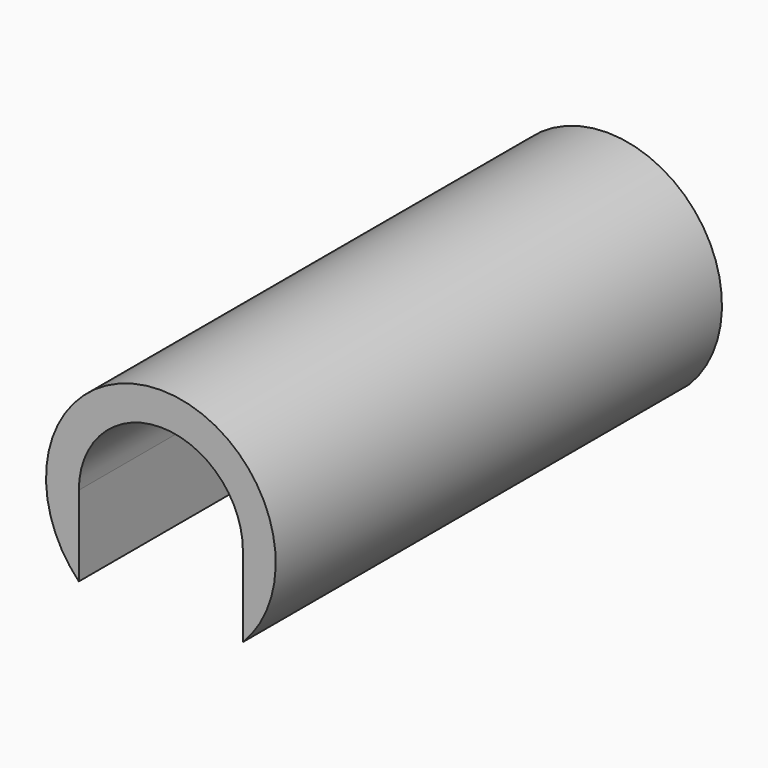
from build123d import *

# Parameters (mm, degrees)
F0_R          = 3.5
F0_R_2        = 2.5
F1_DEPTH      = 8.5
F1_DEPTH_BACK = 8.5
F3_DEPTH      = 17.001


with BuildPart() as f1:
    # F0 (on Front) → F1 (new body, two sides)
    with BuildSketch(Plane.XZ) as f1_sk:
        Circle(F0_R)
        Circle(F0_R_2, mode=Mode.SUBTRACT)
    extrude(amount=F1_DEPTH)
    extrude(f1_sk.sketch, amount=-F1_DEPTH_BACK)

    # F2 (on face) → F3 (cut, through all)
    with BuildSketch(Plane.XZ.offset(8.5)):
        with BuildLine():
            Line((2.5, 0), (-2.5, 0))
            ThreePointArc((-2.5, 0), (0, -2.5), (2.5, 0))
        make_face()
        with BuildLine():
            ThreePointArc((0, -3.5), (-1.355874, -3.226702), (-2.5, -2.44949))
            Line((-2.5, -2.44949), (-2.5, -3.5))
            Line((-2.5, -3.5), (0, -3.5))
        make_face()
        with BuildLine():
            ThreePointArc((2.5, 0), (0, -2.5), (-2.5, 0))
            Line((-2.5, 0), (-2.5, -2.44949))
            ThreePointArc((-2.5, -2.44949), (-1.355874, -3.226702), (0, -3.5))
            ThreePointArc((0, -3.5), (1.355874, -3.226702), (2.5, -2.44949))
            Line((2.5, -2.44949), (2.5, 0))
        make_face()
        with BuildLine():
            Line((2.5, -3.5), (2.5, -2.44949))
            ThreePointArc((2.5, -2.44949), (1.355874, -3.226702), (0, -3.5))
            Line((0, -3.5), (2.5, -3.5))
        make_face()
    extrude(amount=-F3_DEPTH, mode=Mode.SUBTRACT)


solid = f1.part
